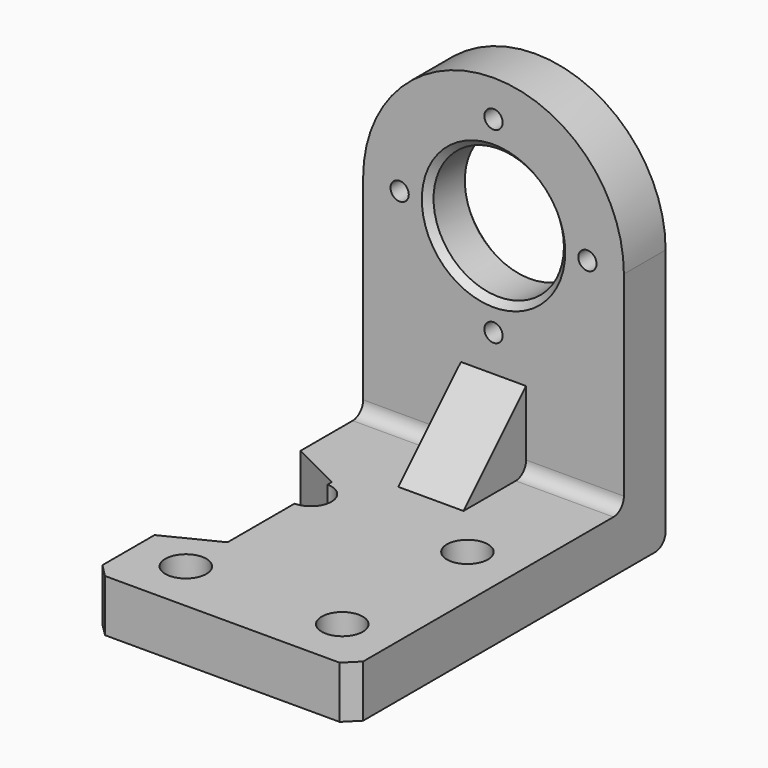
from build123d import *

# Parameters (mm, degrees)
F0_W      = 200
F0_H      = 40
F0_R      = 7
F0_R_2    = 50
F1_DEPTH  = 40
F2_DEPTH  = 300
F3_SIZE   = 5
F4_R      = 8.75
F5_DEPTH  = 40.001
F4_R_2    = 15.75
F6_DEPTH  = 20
F7_SIZE   = 10
F8_R      = 10
F10_DEPTH = 25
F13_DEPTH = 40.001
F14_R     = 10


with BuildPart() as f1:
    # F0 (on Front) → F1 (new body)
    with BuildSketch(Plane.XZ):
        with Locations((0, 20)):
            Rectangle(F0_W, F0_H)
        with BuildLine():
            Line((-100, 200), (-100, 40))
            Line((-100, 40), (100, 40))
            Line((100, 40), (100, 200))
            ThreePointArc((100, 200), (0, 300), (-100, 200))
        make_face()
        with Locations((0, 128)):
            Circle(F0_R, mode=Mode.SUBTRACT)
        with Locations((-72, 200)):
            Circle(F0_R, mode=Mode.SUBTRACT)
        with Locations((0, 200)):
            Circle(F0_R_2, mode=Mode.SUBTRACT)
        with Locations((72, 200)):
            Circle(F0_R, mode=Mode.SUBTRACT)
        with Locations((0, 272)):
            Circle(F0_R, mode=Mode.SUBTRACT)
    extrude(amount=F1_DEPTH)

    # F0 (on Front) → F2 (join)
    with BuildSketch(Plane.XZ):
        with Locations((0, 20)):
            Rectangle(F0_W, F0_H)
    extrude(amount=F2_DEPTH)

    # F3
    f3_edges = [f1.edges().sort_by_distance(p)[0] for p in [
        (-50, -40, 200),
        (-50, 0, 200),
    ]]
    chamfer(f3_edges, length=F3_SIZE)

    # F4 (on face) → F5 (cut, through all)
    with BuildSketch(Plane.XY.offset(40)):
        with Locations((60, -140)):
            Circle(F4_R)
        with Locations((-60, -140)):
            Circle(F4_R)
        with Locations((60, -260)):
            Circle(F4_R)
        with Locations((-60, -260)):
            Circle(F4_R)
    extrude(amount=-F5_DEPTH, mode=Mode.SUBTRACT)

    # F4 (on face) → F6 (cut)
    with BuildSketch(Plane.XY.offset(40)):
        with Locations((-60, -140)):
            Circle(F4_R_2)
        with Locations((-60, -140)):
            Circle(F4_R, mode=Mode.SUBTRACT)
        with Locations((60, -140)):
            Circle(F4_R_2)
        with Locations((60, -140)):
            Circle(F4_R, mode=Mode.SUBTRACT)
        with Locations((60, -260)):
            Circle(F4_R_2)
        with Locations((60, -260)):
            Circle(F4_R, mode=Mode.SUBTRACT)
        with Locations((-60, -260)):
            Circle(F4_R_2)
        with Locations((-60, -260)):
            Circle(F4_R, mode=Mode.SUBTRACT)
    extrude(amount=-F6_DEPTH, mode=Mode.SUBTRACT)

    # F7
    f7_edges = [f1.edges().sort_by_distance(p)[0] for p in [
        (-100, -300, 20),
        (100, -300, 20),
    ]]
    chamfer(f7_edges, length=F7_SIZE)

    # F8
    f8_edges = [f1.edges().sort_by_distance(p)[0] for p in [
        (0, 0, 0),
    ]]
    fillet(f8_edges, radius=F8_R)

    # F9 (on Right) → F10 (join, symmetric)
    with BuildSketch(Plane.YZ):
        Polygon((-40, 100), (-100, 40), (-40, 40), align=None)
    extrude(amount=F10_DEPTH, both=True)

    # F12 (on offset) → F13 (cut, through all)
    with BuildSketch(Plane.XY.offset(40)):
        Polygon((-100, -100), (-100, -240), (-60, -220), (-60, -120), align=None)
    extrude(amount=-F13_DEPTH, mode=Mode.SUBTRACT)

    # F14
    f14_edges = [f1.edges().sort_by_distance(p)[0] for p in [
        (62.5, -40, 40),
        (-62.5, -40, 40),
    ]]
    fillet(f14_edges, radius=F14_R)


solid = f1.part
